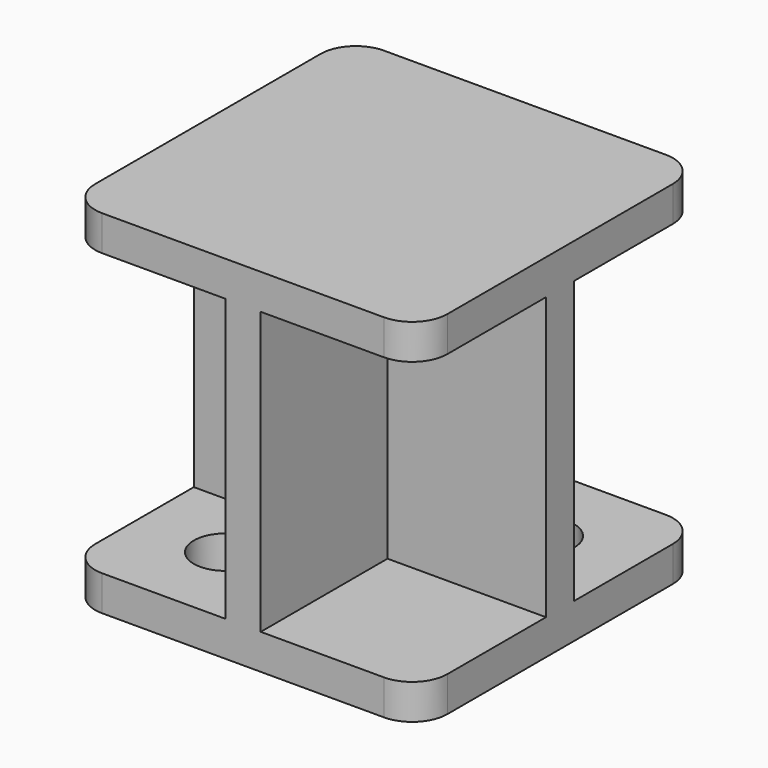
from build123d import *

# Parameters (mm, degrees)
F1_DEPTH = 100
F2_W     = 100
F2_H     = 100
F3_DEPTH = 10
F4_W     = 45
F4_H     = 45
F5_DEPTH = 10
F6_R     = 10
F7_R     = 9
F8_DEPTH = 87


with BuildPart() as f1:
    # F0 (on Top) → F1 (new body)
    with BuildSketch(Plane.XY):
        Polygon((-5, -50), (0, -50), (5, -50), (5, -5), (50, -5), (50, 0), (50, 5), (5, 5), (5, 50), (0, 50), (-5, 50), (-5, 5), (-50, 5), (-50, 0), (-50, -5), (-5, -5), align=None)
    extrude(amount=F1_DEPTH)

    # F2 (on Top) → F3 (join)
    with BuildSketch(Plane.XY):
        Rectangle(F2_W, F2_H)
    extrude(amount=F3_DEPTH)

    # F4 (on face) → F5 (join)
    with BuildSketch(Plane.XY.offset(100)):
        with Locations((-27.5, 27.5)):
            Rectangle(F4_W, F4_H)
        Polygon((5, 50), (-5, 50), (-5, 5), (-50, 5), (-50, -5), (-5, -5), (-5, -50), (5, -50), (5, -5), (50, -5), (50, 5), (5, 5), align=None)
        with Locations((27.5, 27.5)):
            Rectangle(F4_W, F4_H)
        with Locations((27.5, -27.5)):
            Rectangle(F4_W, F4_H)
        with Locations((-27.5, -27.5)):
            Rectangle(F4_W, F4_H)
    extrude(amount=-F5_DEPTH)

    # F6
    f6_edges = [f1.edges().sort_by_distance(p)[0] for p in [
        (50, -50, 95),
        (50, -50, 5),
        (50, 50, 95),
        (50, 50, 5),
        (-50, -50, 95),
        (-50, -50, 5),
        (-50, 50, 95),
        (-50, 50, 5),
    ]]
    fillet(f6_edges, radius=F6_R)

    # F7 (on Top) → F8 (cut, symmetric)
    with BuildSketch(Plane.XY):
        with Locations((-25, -25)):
            Circle(F7_R)
        with Locations((25, 25)):
            Circle(F7_R)
    extrude(amount=F8_DEPTH, both=True, mode=Mode.SUBTRACT)


solid = f1.part
